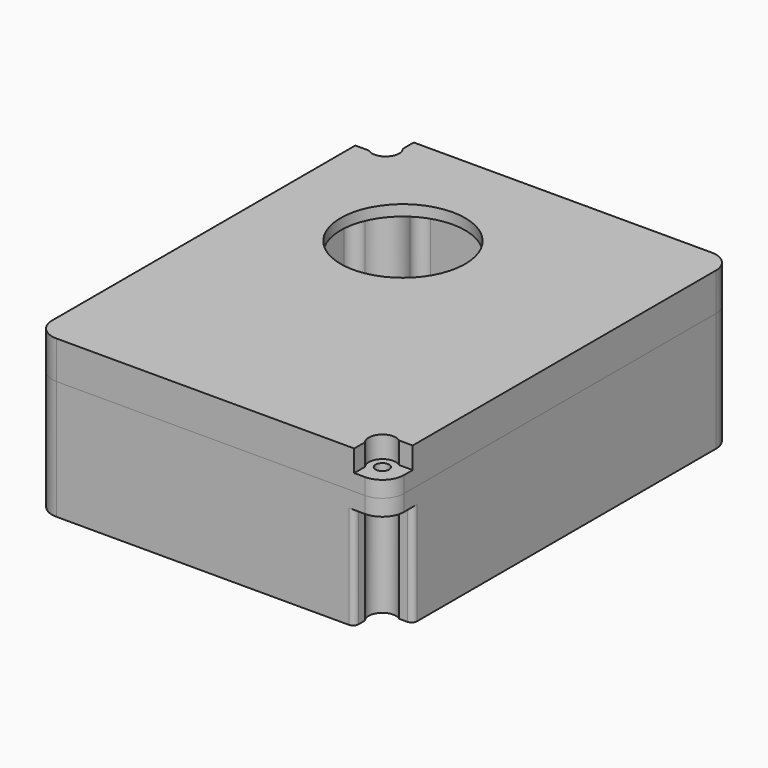
from build123d import *

# Parameters (mm, degrees)
PAD_DEPTH          = 22
POCKET_DEPTH       = 19.751
SHAPEBINDER002_R   = 1.25
POCKET001_DEPTH    = 2.5
SHAPEBINDER003_R   = 1.25
SHAPEBINDER003_R_2 = 2
POCKET002_DEPTH    = 22.001
POCKET003_DEPTH    = 1.25
SHAPEBINDER005_R   = 3.125
POCKET004_DEPTH    = 5
SHAPEBINDER006_W   = 4
SHAPEBINDER006_H   = 10
PAD001_DEPTH       = 6
POCKET005_DEPTH    = 19
FILLET_R           = 1
PAD002_DEPTH       = 7
SHAPEBINDER009_R   = 1.75
PAD003_DEPTH       = 3
FILLET001_R        = 1
POCKET006_DEPTH    = 5
POCKET007_DEPTH    = 4
SHAPEBINDER012_R   = 11.5
POCKET008_DEPTH    = 5
SHAPEBINDER013_R   = 1.25
POCKET009_DEPTH    = 10.001


with BuildPart() as bottom_part:
    # ShapeBinder → Pad (new body)
    with BuildSketch(Plane(origin=(32.5, 40, 0), x_dir=(0, 1, 0), z_dir=(0, 0, 1))):
        with BuildLine():
            Line((-40, 28.5), (-40, -28.5))
            ThreePointArc((-40, -28.5), (-38.828427, -31.328427), (-36, -32.5))
            Line((-36, -32.5), (36, -32.5))
            ThreePointArc((36, -32.5), (38.828427, -31.328427), (40, -28.5))
            Line((40, -28.5), (40, 28.5))
            ThreePointArc((40, 28.5), (38.828427, 31.328427), (36, 32.5))
            Line((36, 32.5), (-36, 32.5))
            ThreePointArc((-36, 32.5), (-38.828427, 31.328427), (-40, 28.5))
        make_face()
    extrude(amount=PAD_DEPTH)

    # ShapeBinder001 → Pocket (cut, through all)
    with BuildSketch(Plane(origin=(32.5, 40, 2.25), x_dir=(0, 1, 0), z_dir=(0, 0, 1))):
        with BuildLine():
            ThreePointArc((32.055947, 29.166667), (31.611445, 30.790994), (30.08392, 31.5))
            Line((30.08392, 31.5), (-32.535898, 31.5))
            ThreePointArc((-32.535898, 31.5), (-33.401924, 31), (-33.401924, 30))
            ThreePointArc((-33.401924, 30), (-33.87868, 26.37868), (-37.5, 25.901924))
            ThreePointArc((-37.5, 25.901924), (-38.5, 25.901924), (-39, 25.035898))
            Line((-39, 25.035898), (-39, -22.58392))
            ThreePointArc((-39, -22.58392), (-38.290994, -24.111445), (-36.666667, -24.555947))
            ThreePointArc((-36.666667, -24.555947), (-33.171573, -25.671573), (-32.055947, -29.166667))
            ThreePointArc((-32.055947, -29.166667), (-31.611445, -30.790994), (-30.08392, -31.5))
            Line((-30.08392, -31.5), (32.535898, -31.5))
            ThreePointArc((32.535898, -31.5), (33.401924, -31), (33.401924, -30))
            ThreePointArc((33.401924, -30), (33.87868, -26.37868), (37.5, -25.901924))
            ThreePointArc((37.5, -25.901924), (38.5, -25.901924), (39, -25.035898))
            Line((39, -25.035898), (39, 22.58392))
            ThreePointArc((39, 22.58392), (38.290994, 24.111445), (36.666667, 24.555947))
            ThreePointArc((36.666667, 24.555947), (33.171573, 25.671573), (32.055947, 29.166667))
        make_face()
    extrude(amount=POCKET_DEPTH, mode=Mode.SUBTRACT)

    # ShapeBinder002 → Pocket001 (cut, symmetric)
    with BuildSketch(Plane(origin=(32.5, 44.762005, 0), x_dir=(0, 1, 0), z_dir=(0, 0, 1))):
        with Locations((22.012005, 18)):
            Circle(SHAPEBINDER002_R)
        with Locations((22.012005, -18)):
            Circle(SHAPEBINDER002_R)
        with Locations((-33.987995, 18)):
            Circle(SHAPEBINDER002_R)
        with Locations((-33.987995, -18)):
            Circle(SHAPEBINDER002_R)
    extrude(amount=POCKET001_DEPTH, both=True, mode=Mode.SUBTRACT)

    # ShapeBinder003 → Pocket002 (cut, through all)
    with BuildSketch(Plane(origin=(32.5, 40, 0), x_dir=(0, 1, 0), z_dir=(0, 0, 1))):
        with Locations((36, 28.5)):
            Circle(SHAPEBINDER003_R)
        with Locations((36, -28.5)):
            Circle(SHAPEBINDER003_R_2)
        with Locations((-36, 28.5)):
            Circle(SHAPEBINDER003_R_2)
        with Locations((-36, -28.5)):
            Circle(SHAPEBINDER003_R)
    extrude(amount=POCKET002_DEPTH, mode=Mode.SUBTRACT)

    # ShapeBinder004 → Pocket003 (cut)
    with BuildSketch(Plane(origin=(32.5, 40, 0), x_dir=(0, 1, 0), z_dir=(0, 0, 1))):
        Polygon((34.816432, 30.55), (37.183568, 30.55), (38.367136, 28.5), (37.183568, 26.45), (34.816432, 26.45), (33.632864, 28.5), align=None)
        Polygon((25.590443, 20.05), (27.957579, 20.05), (29.141147, 18), (27.957579, 15.95), (25.590443, 15.95), (24.406875, 18), align=None)
        Polygon((25.590443, -15.95), (27.957579, -15.95), (29.141147, -18), (27.957579, -20.05), (25.590443, -20.05), (24.406875, -18), align=None)
        Polygon((-30.409557, 20.05), (-28.042421, 20.05), (-26.858853, 18), (-28.042421, 15.95), (-30.409557, 15.95), (-31.593125, 18), align=None)
        Polygon((-30.409557, -15.95), (-28.042421, -15.95), (-26.858853, -18), (-28.042421, -20.05), (-30.409557, -20.05), (-31.593125, -18), align=None)
        Polygon((-37.183568, -26.45), (-34.816432, -26.45), (-33.632864, -28.5), (-34.816432, -30.55), (-37.183568, -30.55), (-38.367136, -28.5), align=None)
    extrude(amount=POCKET003_DEPTH, mode=Mode.SUBTRACT)

    # ShapeBinder005 → Pocket004 (cut)
    with BuildSketch(Plane(origin=(0, 56, 6.25), x_dir=(0, -1, 0), z_dir=(1, 0, 0))):
        Circle(SHAPEBINDER005_R)
    extrude(amount=POCKET004_DEPTH, mode=Mode.SUBTRACT)

    # ShapeBinder006 → Pad001 (join)
    with BuildSketch(Plane(origin=(5, 56, 0), x_dir=(0, 1, 0), z_dir=(0, 0, 1))):
        with Locations((8.6, 0)):
            Rectangle(SHAPEBINDER006_W, SHAPEBINDER006_H)
        with Locations((-8.6, 0)):
            Rectangle(SHAPEBINDER006_W, SHAPEBINDER006_H)
    extrude(amount=PAD001_DEPTH)

    # ShapeBinder007 → Pocket005 (cut)
    with BuildSketch(Plane(origin=(32.5, 40, 0), x_dir=(0, 1, 0), z_dir=(0, 0, 1))):
        with BuildLine():
            ThreePointArc((-34, -30), (-34.232233, -26.732233), (-37.5, -26.5))
            Line((-37.5, -26.5), (-40, -26.5))
            Line((-40, -26.5), (-40, -32.5))
            Line((-40, -32.5), (-34, -32.5))
            Line((-34, -32.5), (-34, -30))
        make_face()
        with BuildLine():
            ThreePointArc((34, 30), (34.232233, 26.732233), (37.5, 26.5))
            Line((37.5, 26.5), (40, 26.5))
            Line((40, 26.5), (40, 32.5))
            Line((40, 32.5), (34, 32.5))
            Line((34, 32.5), (34, 30))
        make_face()
    extrude(amount=POCKET005_DEPTH, mode=Mode.SUBTRACT)

    # Fillet
    fillet_edges = [bottom_part.edges().sort_by_distance(p)[0] for p in [
        (59, 0, 9.5),
        (65, 6, 9.5),
        (6, 80, 9.5),
        (0, 74, 9.5),
    ]]
    fillet(fillet_edges, radius=FILLET_R)


with BuildPart() as cover:
    # ShapeBinder008 → Pad002 (new body)
    with BuildSketch(Plane(origin=(32.5, 40, 22), x_dir=(0, 1, 0), z_dir=(0, 0, 1))):
        with BuildLine():
            Line((-40, 28.5), (-40, -28.5))
            ThreePointArc((-40, -28.5), (-38.828427, -31.328427), (-36, -32.5))
            Line((-36, -32.5), (36, -32.5))
            ThreePointArc((36, -32.5), (38.828427, -31.328427), (40, -28.5))
            Line((40, -28.5), (40, 28.5))
            ThreePointArc((40, 28.5), (38.828427, 31.328427), (36, 32.5))
            Line((36, 32.5), (-36, 32.5))
            ThreePointArc((-36, 32.5), (-38.828427, 31.328427), (-40, 28.5))
        make_face()
    extrude(amount=PAD002_DEPTH)

    # ShapeBinder009 → Pad003 (join)
    with BuildSketch(Plane(origin=(32.5, 40, 22), x_dir=(0, 1, 0), z_dir=(0, 0, 1))):
        with Locations((36, -28.5)):
            Circle(SHAPEBINDER009_R)
        with Locations((-36, 28.5)):
            Circle(SHAPEBINDER009_R)
    extrude(amount=-PAD003_DEPTH)

    # Fillet001
    fillet001_edges = [cover.edges().sort_by_distance(p)[0] for p in [
        (2.25, 4, 19),
        (59.25, 76, 19),
    ]]
    fillet(fillet001_edges, radius=FILLET001_R)

    # ShapeBinder010 → Pocket006 (cut)
    with BuildSketch(Plane(origin=(32.5, 40, 22), x_dir=(0, 1, 0), z_dir=(0, 0, 1))):
        Polygon((-39, 21), (-39, -21), (-29, -31.5), (29, -31.5), (39, -21), (39, 21), (29, 31.5), (-29, 31.5), align=None)
    extrude(amount=POCKET006_DEPTH, mode=Mode.SUBTRACT)

    # ShapeBinder011 → Pocket007 (cut)
    with BuildSketch(Plane(origin=(32.5, 40, 29), x_dir=(0, 1, 0), z_dir=(0, 0, 1))):
        with BuildLine():
            ThreePointArc((-34, -30), (-34.232233, -26.732233), (-37.5, -26.5))
            Line((-37.5, -26.5), (-40, -26.5))
            Line((-40, -26.5), (-40, -32.5))
            Line((-40, -32.5), (-34, -32.5))
            Line((-34, -32.5), (-34, -30))
        make_face()
        with BuildLine():
            ThreePointArc((34, 30), (34.232233, 26.732233), (37.5, 26.5))
            Line((37.5, 26.5), (40, 26.5))
            Line((40, 26.5), (40, 32.5))
            Line((40, 32.5), (34, 32.5))
            Line((34, 32.5), (34, 30))
        make_face()
    extrude(amount=-POCKET007_DEPTH, mode=Mode.SUBTRACT)

    # ShapeBinder012 → Pocket008 (cut)
    with BuildSketch(Plane(origin=(24, 55, 29), x_dir=(0, 1, 0), z_dir=(0, 0, 1))):
        Circle(SHAPEBINDER012_R)
    extrude(amount=-POCKET008_DEPTH, mode=Mode.SUBTRACT)

    # ShapeBinder013 → Pocket009 (cut, through all)
    with BuildSketch(Plane(origin=(32.5, 40, 29), x_dir=(0, 1, 0), z_dir=(0, 0, 1))):
        with Locations((-36, -28.5)):
            Circle(SHAPEBINDER013_R)
        with Locations((36, 28.5)):
            Circle(SHAPEBINDER013_R)
    extrude(amount=-POCKET009_DEPTH, mode=Mode.SUBTRACT)


solid = Compound([bottom_part.part, cover.part])
